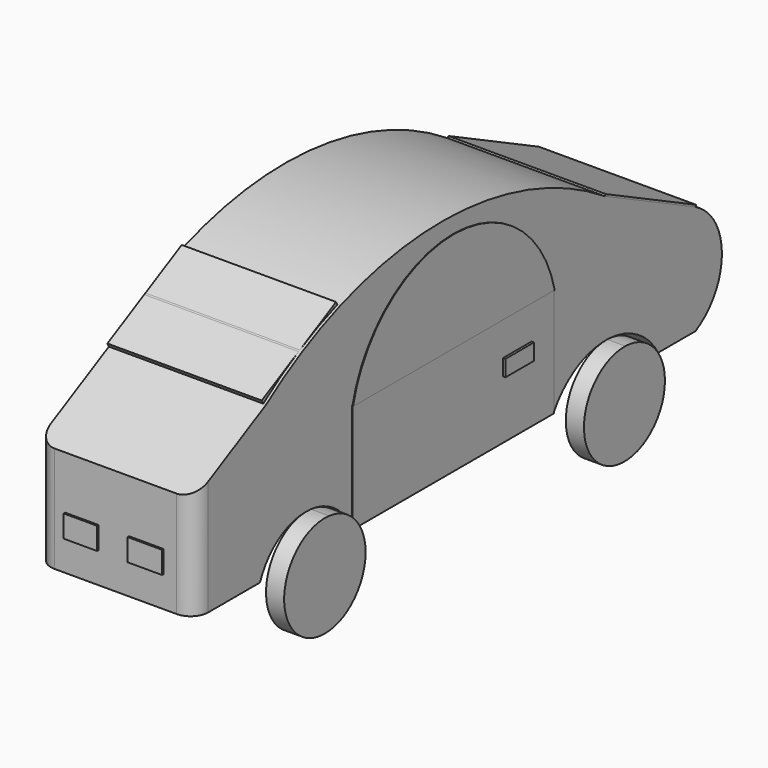
from build123d import *

# Parameters (mm, degrees)
F1_DEPTH  = 33.02
F4_DEPTH  = 3.81
F6_DEPTH  = 3.81
F7_DEPTH  = 3.81
F8_DEPTH  = 3.81
F9_W      = 27.328588767
F9_H      = 22.564008832
F9_W_2    = 25.6325763185
F10_DEPTH = 0.127
F12_DEPTH = 0.127
F13_W     = 25.650058873
F13_H     = 22.8437650949
F13_W_2   = 27.3111062124
F14_DEPTH = 0.127
F16_DEPTH = 0.127
F17_R     = 3.6792614691
F18_W     = 7.7282376587
F18_H     = 3.8641188294
F19_DEPTH = 0.508
F20_W     = 7.5009372085
F20_H     = 3.4095174633
F21_DEPTH = 0.508
F22_W     = 33.02
F22_H     = 26.4421320528
F23_DEPTH = 0.381
F24_W     = 7.0463349111
F24_H     = 4.6596731991
F25_DEPTH = 0.381
F24_W_2   = 7.2736367583
F26_W     = 32.4227958918
F26_H     = 22.0667268427
F27_DEPTH = 0.8382


with BuildPart() as f1:
    # F0 (on Right) → F1 (new body)
    with BuildSketch(Plane.YZ):
        with BuildLine():
            Line((-72.0544606447, 15.7974287868), (-72.0544606447, -6.4780823886))
            Line((-72.0544606447, -6.4780823886), (-54.779574275, -6.4780823886))
            ThreePointArc((-54.779574275, -6.4780823886), (-42.7326140925, 1.7227260465), (-30.68565391, -6.4780823886))
            Line((-30.68565391, -6.4780823886), (22.2755111754, -6.4780823886))
            ThreePointArc((22.2755111754, -6.4780823886), (36.0272303224, 1.4251967706), (49.7789494693, -6.4780823886))
            Line((49.7789494693, -6.4780823886), (59.5528967679, -6.4780823886))
            ThreePointArc((59.5528967679, -6.4780823886), (66.4925608321, 5.0006248057), (59.5528967679, 16.479332))
            Line((59.5528967679, 16.479332), (35.8086712658, 28.1154010445))
            ThreePointArc((35.8086712658, 28.1154010445), (-9.055266807, 40.8429036735), (-53.1802996993, 25.7517229766))
            Line((-53.1802996993, 25.7517229766), (-72.0544606447, 15.7974287868))
        make_face()
    extrude(amount=F1_DEPTH)

    # F9 (on face) → F10 (join)
    with BuildSketch(Plane(origin=(0, 0, 0), x_dir=(0, -1, 0), z_dir=(-1, 0, 0))):
        with Locations((17.0213595266, 4.8039220273)):
            Rectangle(F9_W, F9_H)
        with Locations((-9.4592230162, 4.8039220273)):
            Rectangle(F9_W_2, F9_H)
    extrude(amount=F10_DEPTH)

    # F13 (on face) → F14 (join)
    with BuildSketch(Plane.YZ.offset(33.02)):
        with Locations((-17.8606244735, 4.9438001588)):
            Rectangle(F13_W, F13_H)
        with Locations((8.6199580692, 4.9438001588)):
            Rectangle(F13_W_2, F13_H)
    extrude(amount=F14_DEPTH)

    # F17
    f17_edges = [f1.edges().sort_by_distance(p)[0] for p in [
        (33.02, -72.054461, 4.659673),
        (0, -72.054461, 4.659673),
    ]]
    fillet(f17_edges, radius=F17_R)

    # F18 (on face) → F19 (join)
    with BuildSketch(Plane(origin=(-0.127, 0, 0), x_dir=(0, -1, 0), z_dir=(-1, 0, 0))):
        with Locations((-12.9561647773, 8.6374431849)):
            Rectangle(F18_W, F18_H)
    extrude(amount=F19_DEPTH)

    # F20 (on face) → F21 (join)
    with BuildSketch(Plane.YZ.offset(33.147)):
        with Locations((12.6152122393, 7.5009374414)):
            Rectangle(F20_W, F20_H)
    extrude(amount=F21_DEPTH)


with BuildPart() as f4:
    # F3 (on face) → F4 (new body)
    with BuildSketch(Plane(origin=(0, 0, 0), x_dir=(0, -1, 0), z_dir=(-1, 0, 0))):
        with BuildLine():
            ThreePointArc((52.9687167629, -8.75109341), (49.5576315125, -1.0214346933), (41.5484134697, 1.6684635958))
            ThreePointArc((41.5484134697, 1.6684635958), (35.4529939095, -16.4807521266), (52.9687167629, -8.75109341))
        make_face()
    extrude(amount=F4_DEPTH)


with BuildPart() as f6:
    # F5 (on face) → F6 (new body)
    with BuildSketch(Plane(origin=(0, 0, 0), x_dir=(0, -1, 0), z_dir=(-1, 0, 0))):
        with BuildLine():
            ThreePointArc((-36.355320034, 1.4218147435), (-43.4202929367, -16.4094452618), (-25.7384614591, -8.9783947915))
            ThreePointArc((-25.7384614591, -8.9783947915), (-28.8614700209, -1.5473443211), (-36.355320034, 1.4218147435))
        make_face()
    extrude(amount=F6_DEPTH)


with BuildPart() as f7:
    # F2 (on face) → F7 (new body)
    with BuildSketch(Plane.YZ.offset(33.02)):
        with BuildLine():
            ThreePointArc((46.7705525025, -9.205696173), (43.7375665733, -1.7706251144), (36.3694250314, 1.421517663))
            ThreePointArc((36.3694250314, 1.421517663), (28.5441963843, -16.6407672316), (46.7705525025, -9.205696173))
        make_face()
    extrude(amount=F7_DEPTH)


with BuildPart() as f8:
    # F2 (on face) → F8 (new body)
    with BuildSketch(Plane.YZ.offset(33.02)):
        with BuildLine():
            ThreePointArc((-41.4298194057, 1.6570218497), (-50.4351748735, -16.1468018018), (-31.8156554208, -8.9783947915))
            ThreePointArc((-31.8156554208, -8.9783947915), (-34.5754505485, -1.8099877812), (-41.4298194057, 1.6570218497))
        make_face()
    extrude(amount=F8_DEPTH)


with BuildPart() as f12:
    # F11 (on face) → F12 (new body)
    with BuildSketch(Plane(origin=(-0.127, 0, 0), x_dir=(0, -1, 0), z_dir=(-1, 0, 0))):
        with BuildLine():
            Line((-22.2755111754, 16.0859264433), (30.68565391, 16.0859264433))
            ThreePointArc((30.68565391, 16.0859264433), (4.2050713673, 37.1199804122), (-22.2755111754, 16.0859264433))
        make_face()
    extrude(amount=F12_DEPTH)


with BuildPart() as f16:
    # F15 (on face) → F16 (new body)
    with BuildSketch(Plane.YZ.offset(33.147)):
        with BuildLine():
            Line((-30.68565391, 16.3656827062), (22.2755111754, 16.3656827062))
            ThreePointArc((22.2755111754, 16.3656827062), (-4.2050713673, 37.4650683461), (-30.68565391, 16.3656827062))
        make_face()
    extrude(amount=F16_DEPTH)


with BuildPart() as f23:
    # F22 (on face) → F23 (new body)
    with BuildSketch(Plane(origin=(0, 18.0444238009, 36.8209286267), x_dir=(1, 0, 0), z_dir=(0, 0.4400578978, 0.8979694018))):
        with Locations((16.51, 33.0037528632)):
            Rectangle(F22_W, F22_H)
    extrude(amount=F23_DEPTH)


with BuildPart() as f25:
    # F24 (on face) → F25 (new body)
    with BuildSketch(Plane.XZ.offset(72.0544606447)):
        with Locations((9.4329973217, 2.3298365995)):
            Rectangle(F24_W, F24_H)
    extrude(amount=F25_DEPTH)


with BuildPart() as f25b:
    # F24 (on face) → F25, piece 2 (new body)
    with BuildSketch(Plane.XZ.offset(72.0544606447)):
        with Locations((22.9574162513, 2.3298365995)):
            Rectangle(F24_W_2, F24_H)
    extrude(amount=F25_DEPTH)


with BuildPart() as f27:
    # F26 (on face) → F27 (new body)
    with BuildSketch(Plane(origin=(0, -22.1990952851, 42.0913114746), x_dir=(1, 0, 0), z_dir=(0, -0.4664995085, 0.8845214574))):
        with Locations((16.2113979459, -23.992586662)):
            Rectangle(F26_W, F26_H)
    extrude(amount=F27_DEPTH)


solid = Compound([f1.part, f4.part, f6.part, f7.part, f8.part, f12.part, f16.part, f23.part, f25.part, f25b.part, f27.part])
